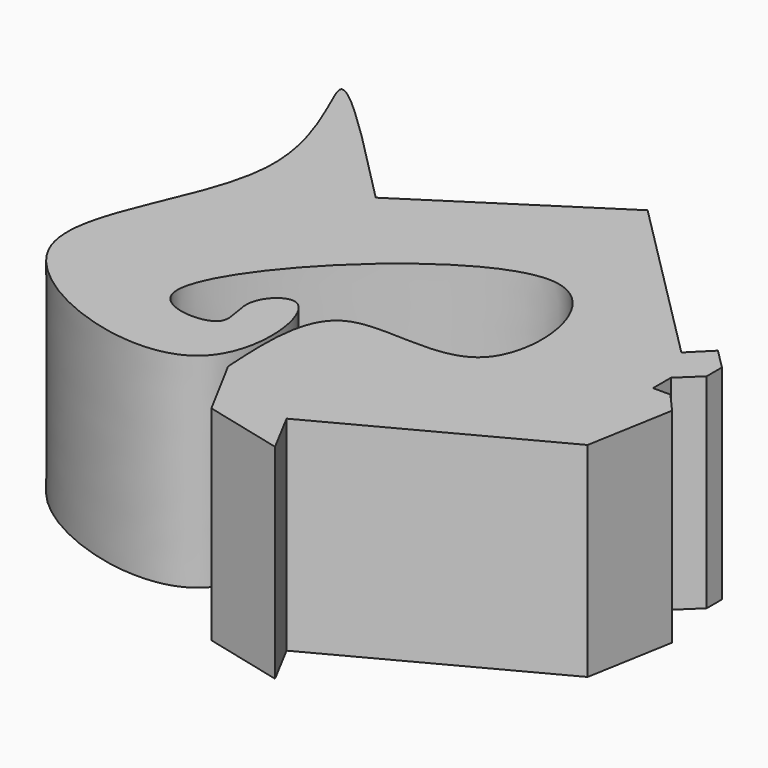
from build123d import *

# Parameters (mm, degrees)
F1_DEPTH = 59.944


with BuildPart() as f1:
    # F0 (on Top) → F1 (new body)
    with BuildSketch(Plane.XY):
        with BuildLine():
            Line((5.1206201315, 55.9059418738), (-47.4289804697, 21.8636468053))
            add(Edge.make_bspline(
                [(-21.5483214706, -64.6499246359), (-22.3875955835, -49.5166363967), (-24.0829694624, -18.9466698163), (33.4387416563, -40.3399871406), (21.7993162663, 51.1906153976), (-79.0174400305, -49.7502994721), (-30.8482418457, -52.0894206669), (-41.2022690621, -36.6317717386), (-24.2920330324, -21.2696852473), (-15.9483827914, -86.3236431863), (-119.8964194907, -48.9211247678), (-59.831497865, 13.8156035307), (-102.8500465834, 78.4618255154), (-66.745454218, 41.5903917043), (-47.4289804697, 21.8636468053)],
                knots=[0, 0, 0, 0, 0.0798853645, 0.1613722599, 0.2465189732, 0.3731232153, 0.4290143311, 0.4755253576, 0.5194829611, 0.5983970803, 0.7053854628, 0.8144483374, 0.9007272044, 1, 1, 1, 1], degree=3))
            Line((-21.5483214706, -64.6499246359), (-11.5216681734, -83.2992866635))
            Line((-11.5216681734, -83.2992866635), (11.7727647571, -89.0896741545))
            Line((11.7727647571, -89.0896741545), (5.1206201315, -76.5422135592))
            Line((5.1206201315, -76.5422135592), (67.1616541936, -43.6506234109))
            Line((67.1616541936, -43.6506234109), (71.6355741024, -18.2556994259))
            Line((71.6355741024, -18.2556994259), (66.3361027837, -12.2550968081))
            Line((66.3361027837, -12.2550968081), (61.2292926563, -12.2550968081))
            Line((61.2292926563, -12.2550968081), (61.2292926563, -5.6530092843))
            Line((61.2292926563, -5.6530092843), (67.1616541936, 0))
            Line((67.1616541936, 0), (67.1616541936, 5.6156236678))
            Line((67.1616541936, 5.6156236678), (61.2292926563, 11.5656631595))
            Line((61.2292926563, 11.5656631595), (55.2615225315, 5.6156236678))
            Line((55.2615225315, 5.6156236678), (5.1206201315, 55.9059418738))
        make_face()
    extrude(amount=F1_DEPTH)


solid = f1.part
